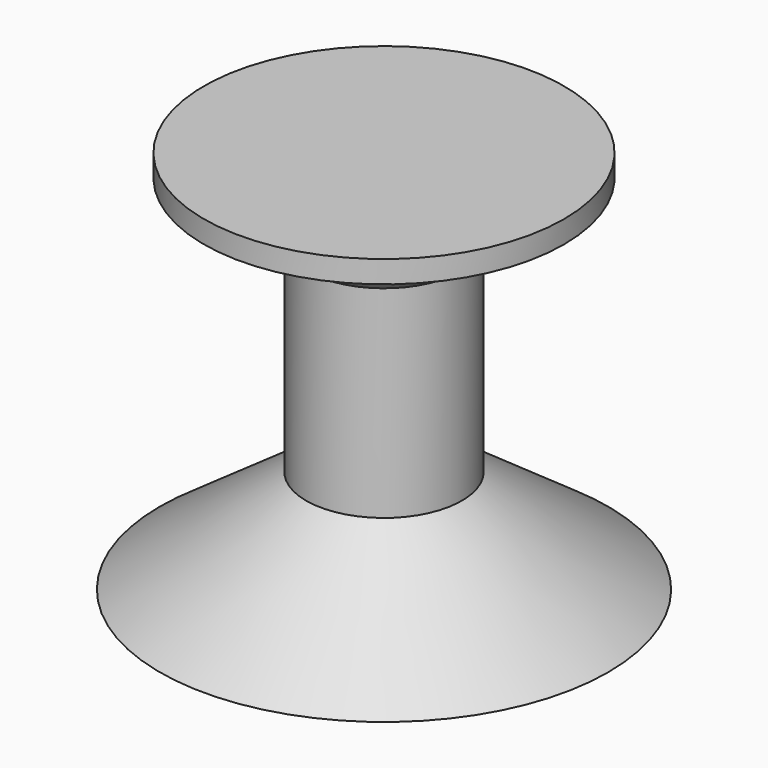
from build123d import *

# Parameters (mm, degrees)
F1_FACE_R = 32.340866
F2_DEPTH  = 4


with BuildPart() as f1:
    # F0 (on Front) → F1 (revolve)
    with BuildSketch(Plane.XZ):
        Polygon((-13.979599, 18.569916), (-40.269591, 0), (0, 0), (0, 69.063395), (-32.340866, 69.063395), (-13.979599, 54.875147), align=None)
    revolve(axis=Axis((0, 0, 34.531698), (0, 0, -1)))

    # F1_face (on face) → F2 (join)
    with BuildSketch(Plane.XY.offset(69.063395)):
        Circle(F1_FACE_R)
    extrude(amount=-F2_DEPTH)


solid = f1.part
